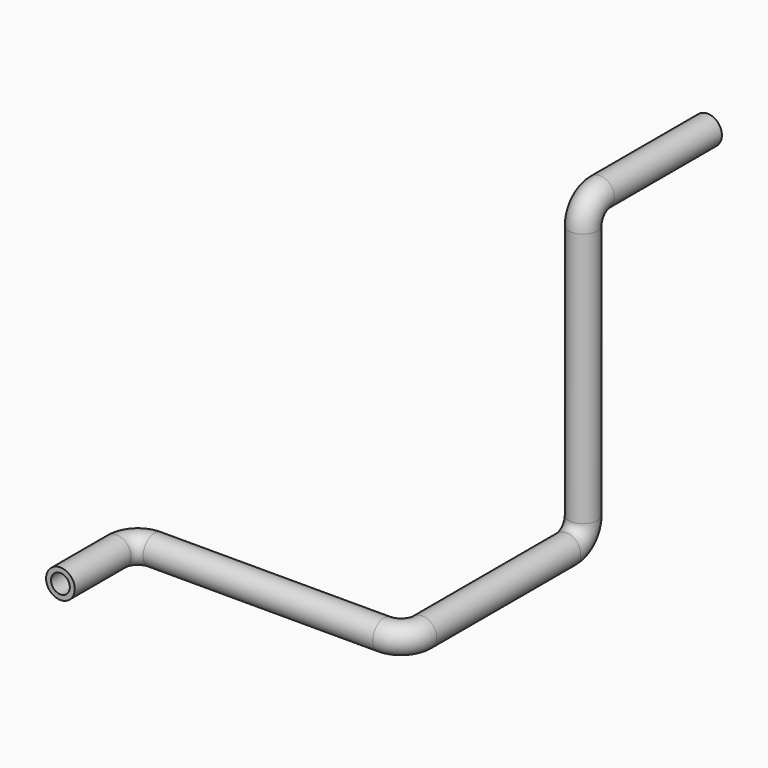
from build123d import *

# Parameters (mm, degrees)
F0_R   = 4.3302486937
F0_R_2 = 2.8378989686
F3_R   = 4.3302486937
F3_R_2 = 2.8378989686


with BuildPart() as f2:
    # F2: sweep along a path in F1
    with BuildLine(Plane.YZ) as f2_path:
        Line((-93.2016074657, -89.5391926169), (-53.2119652092, -89.5391926169))
        ThreePointArc((-53.2119652092, -89.5391926169), (-48.7218371487, -87.6793206775), (-46.8619652092, -83.1891926169))
        Line((-46.8619652092, -83.1891926169), (-46.8619652092, -6.35))
        ThreePointArc((-46.8619652092, -6.35), (-45.0020932698, -1.8598719395), (-40.5119652092, 0))
        Line((-40.5119652092, 0), (0, 0))
    # F0 (on Front) → F2 (sweep)
    with BuildSketch(Plane.XZ):
        Circle(F0_R)
        Circle(F0_R_2, mode=Mode.SUBTRACT)
    sweep(path=f2_path.line)

    # F6: sweep along a path in F5
    with BuildLine(Plane.XY.offset(-89.5391926169)) as f6_path:
        Line((-81.890873611, -141.4180546999), (-81.890873611, -120.2264662504))
        ThreePointArc((-81.890873611, -120.2264662504), (-80.0310016715, -115.7363381899), (-75.540873611, -113.8764662504))
        Line((-75.540873611, -113.8764662504), (-6.35, -113.8764662504))
        ThreePointArc((-6.35, -113.8764662504), (-1.8598719395, -112.016594311), (0, -107.5264662504))
        Line((0, -107.5264662504), (0, -93.2016074657))
    # F3 (on face) → F6 (sweep)
    with BuildSketch(Plane.XZ.offset(93.2016074657)):
        with Locations((0, -89.5391926169)):
            Circle(F3_R)
        with Locations((0, -89.5391926169)):
            Circle(F3_R_2, mode=Mode.SUBTRACT)
    sweep(path=f6_path.line)


solid = f2.part
